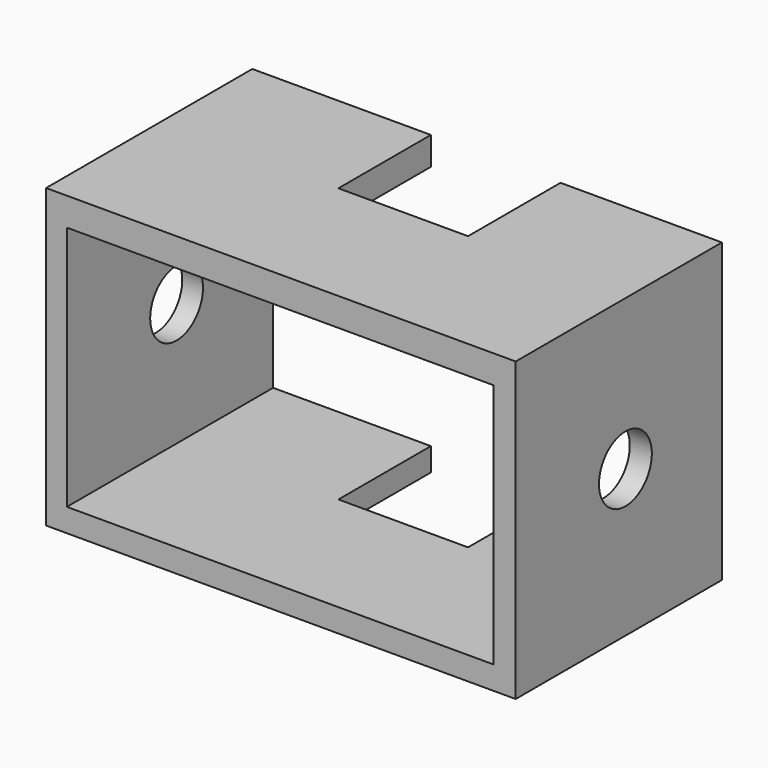
from build123d import *

# Parameters (mm, degrees)
F0_W     = 92.541683
F0_H     = 58.561536
F1_DEPTH = 50.8
F2_W     = 84.106896
F2_H     = 48.43979
F3_DEPTH = 51.308
F4_W     = 25.545361
F4_H     = 22.773931
F5_DEPTH = 58.928
F6_R     = 6.504184
F7_DEPTH = 110.236


with BuildPart() as f1:
    # F0 (on Front) → F1 (new body)
    with BuildSketch(Plane.XZ):
        with Locations((1.566461, -7.229819)):
            Rectangle(F0_W, F0_H)
    extrude(amount=F1_DEPTH)

    # F2 (on Front) → F3 (cut)
    with BuildSketch(Plane.XZ):
        with Locations((1.445962, -7.711807)):
            Rectangle(F2_W, F2_H)
    extrude(amount=F3_DEPTH, mode=Mode.SUBTRACT)

    # F4 (on face) → F5 (cut)
    with BuildSketch(Plane.XY.offset(22.050949)):
        with Locations((3.253419, -11.386965)):
            Rectangle(F4_W, F4_H)
    extrude(amount=-F5_DEPTH, mode=Mode.SUBTRACT)

    # F6 (on face) → F7 (cut)
    with BuildSketch(Plane(origin=(-44.704381, 0, 0), x_dir=(0, -1, 0), z_dir=(-1, 0, 0))):
        with Locations((23.774298, -7.560832)):
            Circle(F6_R)
    extrude(amount=-F7_DEPTH, mode=Mode.SUBTRACT)


solid = f1.part
